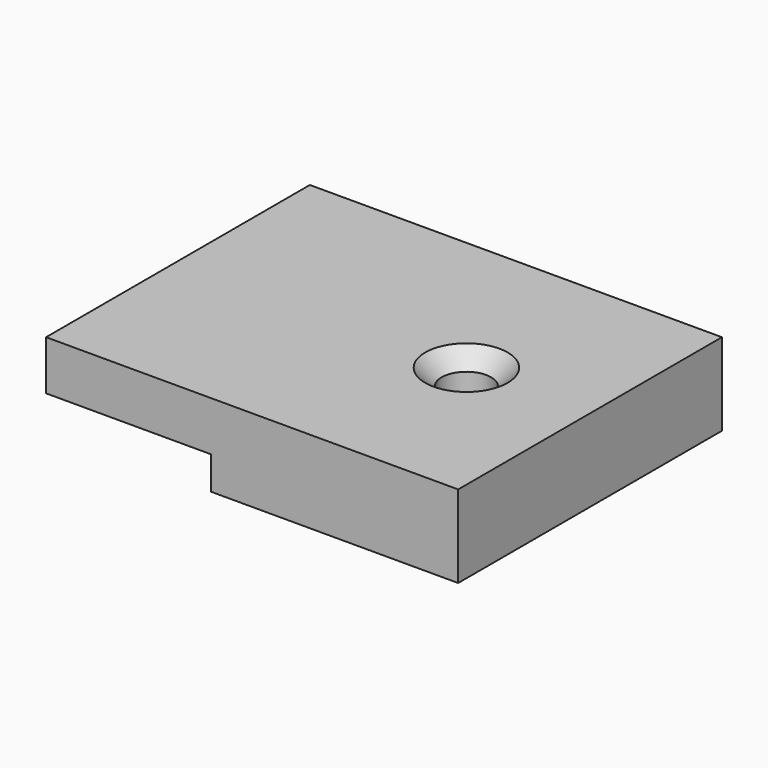
from build123d import *

# Parameters (mm, degrees)
F1_DEPTH = 20
F2_R     = 1.5
F3_DEPTH = 5.001
F4_SIZE  = 1


with BuildPart() as f1:
    # F0 (on Front) → F1 (new body)
    with BuildSketch(Plane.XZ):
        Polygon((-22.628114, -7.176122), (-12.628114, -7.176122), (-12.628114, -9.176122), (2.371886, -9.176122), (2.371886, -4.176122), (-22.628114, -4.176122), align=None)
    extrude(amount=F1_DEPTH)

    # F2 (on face) → F3 (cut, through all)
    with BuildSketch(Plane(origin=(0, 0, -9.176122), x_dir=(1, 0, 0), z_dir=(0, 0, -1))):
        with Locations((-5.128114, 10)):
            Circle(F2_R)
    extrude(amount=-F3_DEPTH, mode=Mode.SUBTRACT)

    # F4
    f4_edges = [f1.edges().sort_by_distance(p)[0] for p in [
        (-6.628114, -10, -4.176122),
    ]]
    chamfer(f4_edges, length=F4_SIZE)


solid = f1.part
